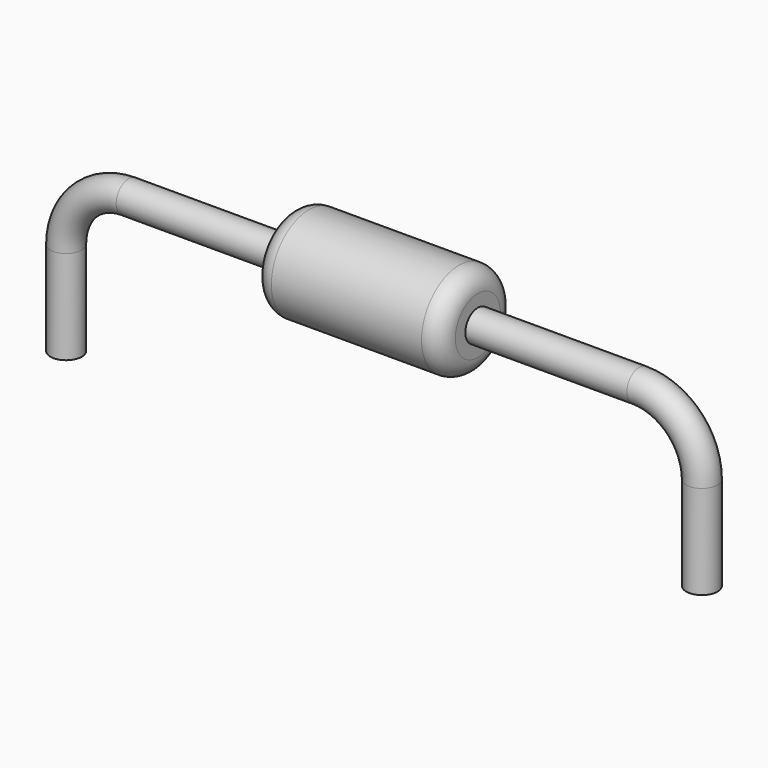
from build123d import *

# Parameters (mm, degrees)
F0_R     = 0.75
F1_DEPTH = 1.5
F2_R     = 0.3
F5_R     = 0.25


with BuildPart() as f1:
    # F0 (on Right) → F1 (new body, symmetric)
    with BuildSketch(Plane.YZ):
        Circle(F0_R)
    extrude(amount=F1_DEPTH, both=True)

    # F2
    f2_edges = [f1.edges().sort_by_distance(p)[0] for p in [
        (-1.5, -0.75, 0),
        (1.5, -0.75, 0),
    ]]
    fillet(f2_edges, radius=F2_R)


with BuildPart() as f6:
    # F6: sweep along a path in F3
    with BuildLine(Plane.XZ) as f6_path:
        Line((-5.08, -2.5), (-5.08, -1))
        ThreePointArc((-5.08, -1), (-4.7871067812, -0.2928932188), (-4.08, 0))
        Line((-4.08, 0), (4.08, 0))
        ThreePointArc((4.08, 0), (4.7871067812, -0.2928932188), (5.08, -1))
        Line((5.08, -1), (5.08, -2.5))
    # F5 (on line) → F6 (sweep)
    with BuildSketch(Plane.XY.offset(-2.5)):
        with Locations((-5.08, 0)):
            Circle(F5_R)
    sweep(path=f6_path.line)


solid = Compound([f1.part, f6.part])
